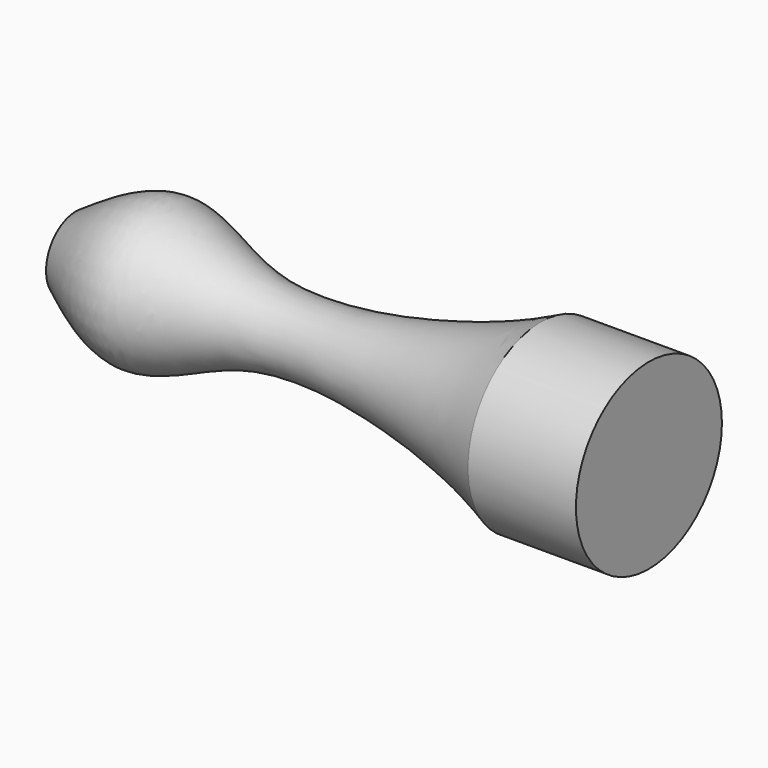
from build123d import *

# Parameters (mm, degrees)
F2_DEPTH = 25


with BuildPart() as f1:
    # F0 (on Top) → F1 (revolve)
    with BuildSketch(Plane.XY):
        with BuildLine():
            add(Edge.make_bspline(
                [(-64.6874979138, 8.6189517751), (-58.4033403613, 12.7882789188), (-44.881622882, 21.7594836098), (-20.2808681058, 2.7994439591), (27.7507191075, 13.9419452432), (38.9355824018, 19.1882380464), (43.0947616696, 21.1391132325)],
                knots=[0, 0, 0, 0, 0.2193418198, 0.4719611331, 0.8036445998, 1, 1, 1, 1], degree=3))
            Line((-64.6874979138, 8.6189517751), (-64.6874979138, 0))
            Line((-64.6874979138, 0), (43.0947616696, 0))
            Line((43.0947616696, 0), (43.0947616696, 21.1391132325))
        make_face()
    revolve(axis=Axis((-10.7963681221, 0, 0), (1, 0, 0)))

    # F2 (add): a face of the model
    f2_faces = [f1.faces().sort_by_distance(p)[0] for p in [
        (43.0947616696, 0, 0),
    ]]
    extrude(f2_faces, amount=F2_DEPTH)


solid = f1.part
